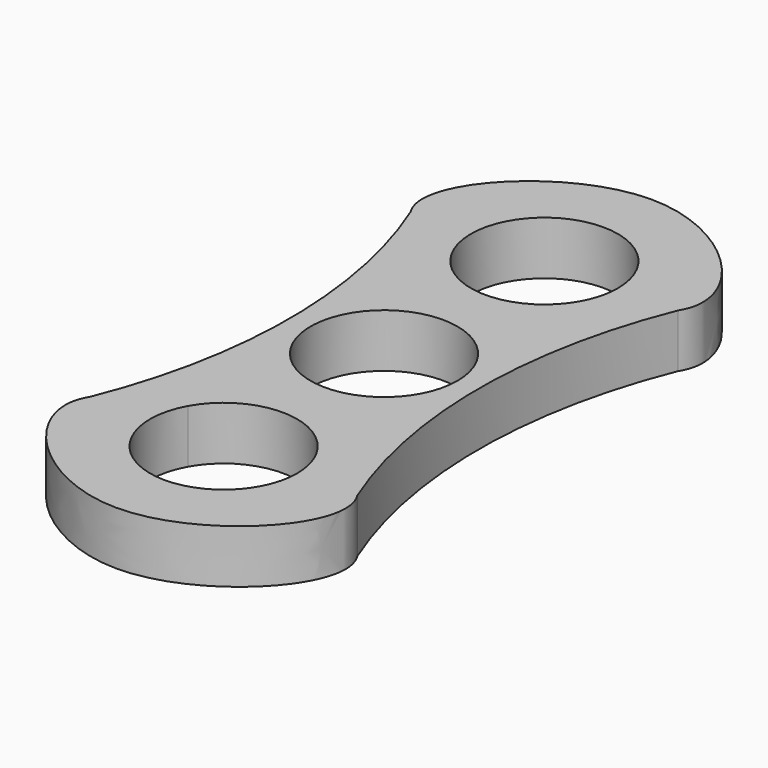
from build123d import *

# Parameters (mm, degrees)
F0_R     = 11
F1_DEPTH = 8


with BuildPart() as f1:
    # F0 (on Top) → F1 (new body)
    with BuildSketch(Plane.XY):
        with BuildLine():
            ThreePointArc((-9.6073463611, 24.6428649543), (-2.7675973359, 40.6461450763), (11, 30))
            ThreePointArc((11, 30), (10.6461450763, 27.2324026641), (9.6073463611, 24.6428649543))
            add(Edge.make_bspline(
                [(9.6073463611, 24.6428649543), (14.4035735746, 25.6322402973), (18.3329413126, 27.4179519792), (20, 30)],
                knots=[0.8849975762, 0.8849975762, 0.8849975762, 0.8849975762, 1, 1, 1, 1], degree=3))
            add(Edge.make_bspline(
                [(20, 30), (24.5452855367, 37.0400314114), (0, 62.9599685886), (-24.5452855367, 37.0400314114), (-20, 30)],
                knots=[0, 0, 0, 0, 0.3135575596, 0.6271151192, 0.6271151192, 0.6271151192, 0.6271151192], degree=3))
            add(Edge.make_bspline(
                [(-20, 30), (-18.3329413126, 27.4179519792), (-14.4035735746, 25.6322402973), (-9.6073463611, 24.6428649543)],
                knots=[0.6271151192, 0.6271151192, 0.6271151192, 0.6271151192, 0.742117543, 0.742117543, 0.742117543, 0.742117543], degree=3))
        make_face()
        with BuildLine():
            ThreePointArc((9.6073463611, 24.6428649543), (0, 19), (-9.6073463611, 24.6428649543))
            add(Edge.make_bspline(
                [(-20, 30), (-18.3329413126, 27.4179519792), (-14.4035735746, 25.6322402973), (-9.6073463611, 24.6428649543)],
                knots=[0.6271151192, 0.6271151192, 0.6271151192, 0.6271151192, 0.742117543, 0.742117543, 0.742117543, 0.742117543], degree=3))
            ThreePointArc((-20, 30), (-14.161984871, 0), (-20, -30))
            add(Edge.make_bspline(
                [(-20, -30), (-18.3329413126, -27.4179519792), (-14.4035735746, -25.6322402973), (-9.6073463611, -24.6428649543)],
                knots=[0.6271151192, 0.6271151192, 0.6271151192, 0.6271151192, 0.742117543, 0.742117543, 0.742117543, 0.742117543], degree=3))
            ThreePointArc((-9.6073463611, -24.6428649543), (0, -19), (9.6073463611, -24.6428649543))
            add(Edge.make_bspline(
                [(9.6073463611, -24.6428649543), (14.4035735746, -25.6322402973), (18.3329413126, -27.4179519792), (20, -30)],
                knots=[0.8849975762, 0.8849975762, 0.8849975762, 0.8849975762, 1, 1, 1, 1], degree=3))
            ThreePointArc((20, -30), (14.161984871, 0), (20, 30))
            add(Edge.make_bspline(
                [(9.6073463611, 24.6428649543), (14.4035735746, 25.6322402973), (18.3329413126, 27.4179519792), (20, 30)],
                knots=[0.8849975762, 0.8849975762, 0.8849975762, 0.8849975762, 1, 1, 1, 1], degree=3))
        make_face()
        Circle(F0_R, mode=Mode.SUBTRACT)
        with BuildLine():
            add(Edge.make_bspline(
                [(-20, -30), (-18.3329413126, -27.4179519792), (-14.4035735746, -25.6322402973), (-9.6073463611, -24.6428649543)],
                knots=[0.6271151192, 0.6271151192, 0.6271151192, 0.6271151192, 0.742117543, 0.742117543, 0.742117543, 0.742117543], degree=3))
            add(Edge.make_bspline(
                [(20, -30), (24.5452855367, -37.0400314114), (0, -62.9599685886), (-24.5452855367, -37.0400314114), (-20, -30)],
                knots=[0, 0, 0, 0, 0.3135575596, 0.6271151192, 0.6271151192, 0.6271151192, 0.6271151192], degree=3))
            add(Edge.make_bspline(
                [(9.6073463611, -24.6428649543), (14.4035735746, -25.6322402973), (18.3329413126, -27.4179519792), (20, -30)],
                knots=[0.8849975762, 0.8849975762, 0.8849975762, 0.8849975762, 1, 1, 1, 1], degree=3))
            ThreePointArc((9.6073463611, -24.6428649543), (10.6461450763, -27.2324026641), (11, -30))
            ThreePointArc((11, -30), (-2.7675973359, -40.6461450763), (-9.6073463611, -24.6428649543))
        make_face()
    extrude(amount=F1_DEPTH)


solid = f1.part
